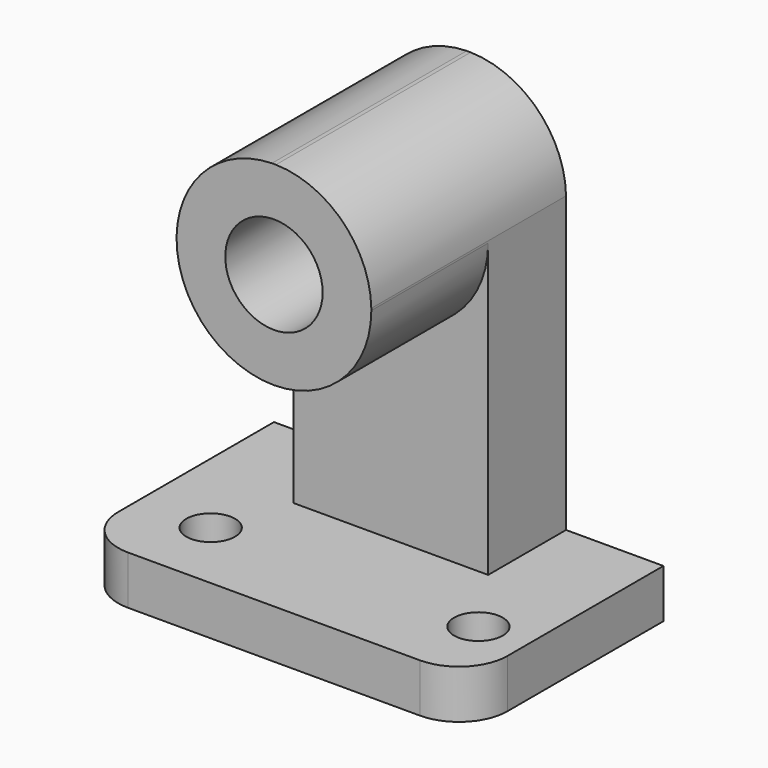
from build123d import *

# Parameters (mm, degrees)
F0_W      = 50.8
F0_H      = 57.15
F1_DEPTH  = 31.75
F2_W      = 12.7
F2_H      = 50.8
F3_DEPTH  = 31.75
F5_DEPTH  = 19.05
F7_DEPTH  = 31.75
F8_R      = 3.175
F9_DEPTH  = 6.35
F10_R     = 6.35
F11_DEPTH = 31.75


with BuildPart() as f1:
    # F0 (on Front) → F1 (new body)
    with BuildSketch(Plane.XZ):
        with Locations((25.4, 28.575)):
            Rectangle(F0_W, F0_H)
    extrude(amount=F1_DEPTH)

    # F2 (on face) → F3 (cut)
    with BuildSketch(Plane.XZ.offset(31.75)):
        with Locations((6.35, 31.75)):
            Rectangle(F2_W, F2_H)
        with Locations((44.45, 31.75)):
            Rectangle(F2_W, F2_H)
    extrude(amount=-F3_DEPTH, mode=Mode.SUBTRACT)

    # F4 (on face) → F5 (cut)
    with BuildSketch(Plane.XZ.offset(31.75)):
        with BuildLine():
            Line((12.7, 44.45), (12.7, 6.35))
            Line((12.7, 6.35), (38.1, 6.35))
            Line((38.1, 6.35), (38.1, 44.45))
            ThreePointArc((38.1, 44.45), (25.4, 31.75), (12.7, 44.45))
        make_face()
    extrude(amount=-F5_DEPTH, mode=Mode.SUBTRACT)

    # F6 (on face) → F7 (cut)
    with BuildSketch(Plane.XZ.offset(31.75)):
        with BuildLine():
            Line((12.7, 57.15), (12.7, 44.7116427085))
            ThreePointArc((12.7, 44.7116427085), (16.4178383196, 53.4321616804), (25.1383572915, 57.15))
            Line((25.1383572915, 57.15), (12.7, 57.15))
        make_face()
        with BuildLine():
            ThreePointArc((25.6616427085, 57.15), (34.3821616804, 53.4321616804), (38.1, 44.7116427085))
            Line((38.1, 44.7116427085), (38.1, 57.15))
            Line((38.1, 57.15), (25.6616427085, 57.15))
        make_face()
    extrude(amount=-F7_DEPTH, mode=Mode.SUBTRACT)

    # F8 (on face) → F9 (cut)
    with BuildSketch(Plane.XY.offset(6.35)):
        with Locations((9.525, -22.225)):
            Circle(F8_R)
        with BuildLine():
            ThreePointArc((6.35, -31.75), (1.8598719395, -29.8901280605), (0, -25.4))
            Line((0, -25.4), (0, -31.75))
            Line((0, -31.75), (6.35, -31.75))
        make_face()
        with Locations((44.45, -22.225)):
            Circle(F8_R)
        with BuildLine():
            ThreePointArc((50.8, -25.4), (48.9401280605, -29.8901280605), (44.45, -31.75))
            Line((44.45, -31.75), (50.8, -31.75))
            Line((50.8, -31.75), (50.8, -25.4))
        make_face()
    extrude(amount=-F9_DEPTH, mode=Mode.SUBTRACT)

    # F10 (on face) → F11 (cut)
    with BuildSketch(Plane.XZ.offset(31.75)):
        with Locations((25.4, 44.45)):
            Circle(F10_R)
    extrude(amount=-F11_DEPTH, mode=Mode.SUBTRACT)


solid = f1.part
